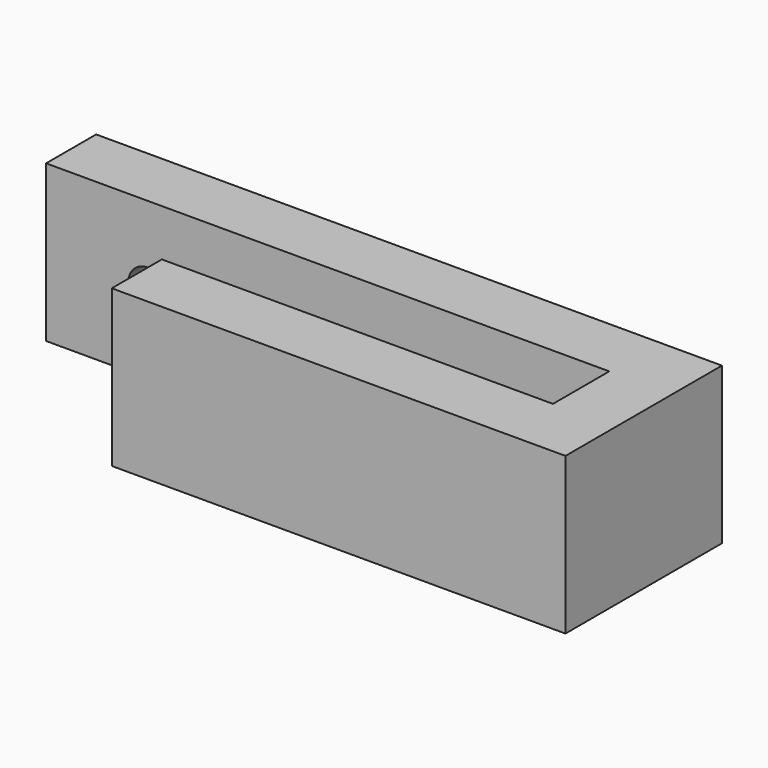
from build123d import *

# Parameters (mm, degrees)
F1_DEPTH = 10
F2_R     = 1.25
F3_DEPTH = 25


with BuildPart() as f1:
    # F0 (on Top) → F1 (new body)
    with BuildSketch(Plane.XY):
        Polygon((0, 4), (0, 0), (29, 0), (29, 12.5), (-11, 12.5), (-11, 8.5), (25, 8.5), (25, 4), align=None)
    extrude(amount=F1_DEPTH)

    # F2 (on face) → F3 (cut)
    with BuildSketch(Plane.XZ.offset(-8.5)):
        with Locations((-4.5, 5)):
            Circle(F2_R)
    extrude(amount=-F3_DEPTH, mode=Mode.SUBTRACT)


solid = f1.part
